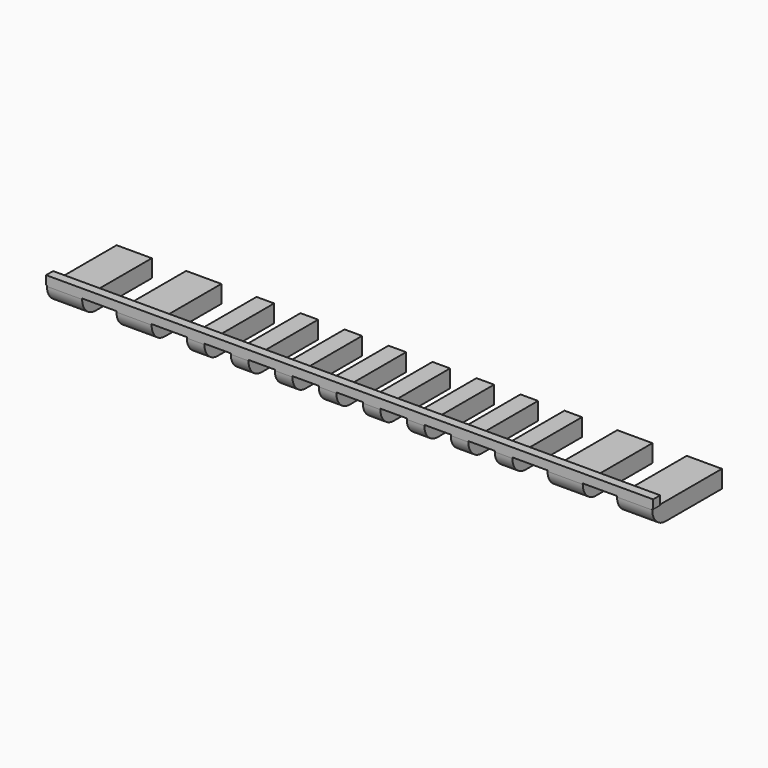
from build123d import *

# Parameters (mm, degrees)
SKETCH015_W  = 6.9
SKETCH015_H  = 0.1
PAD008_DEPTH = 0.1
SKETCH017_W  = 0.2
SKETCH017_H  = 0.99
PAD009_DEPTH = 0.2
SKETCH018_W  = 0.2
SKETCH018_H  = 0.99
PAD010_DEPTH = 0.2
FILLET003_R  = 0.19


with BuildPart() as part:
    # Sketch015 → Pad008 (new body)
    with BuildSketch(Plane.XY.offset(0.15)):
        with Locations((4.47, 6.96)):
            Rectangle(SKETCH015_W, SKETCH015_H)
    extrude(amount=PAD008_DEPTH)

    # Sketch017 → Pad009 (join)
    with BuildSketch(Plane.XY.offset(-0.05)):
        with Locations((1.33, 7.405)):
            Rectangle(SKETCH017_W, SKETCH017_H)
        with Locations((2.12, 7.405)):
            Rectangle(SKETCH017_W, SKETCH017_H)
        with Locations((2.72, 7.405)):
            Rectangle(SKETCH017_W, SKETCH017_H)
        with Locations((3.22, 7.405)):
            Rectangle(SKETCH017_W, SKETCH017_H)
        with Locations((3.72, 7.405)):
            Rectangle(SKETCH017_W, SKETCH017_H)
        with Locations((4.22, 7.405)):
            Rectangle(SKETCH017_W, SKETCH017_H)
        with Locations((4.72, 7.405)):
            Rectangle(SKETCH017_W, SKETCH017_H)
        with Locations((5.22, 7.405)):
            Rectangle(SKETCH017_W, SKETCH017_H)
        with Locations((5.72, 7.405)):
            Rectangle(SKETCH017_W, SKETCH017_H)
        with Locations((6.22, 7.405)):
            Rectangle(SKETCH017_W, SKETCH017_H)
        with Locations((6.82, 7.405)):
            Rectangle(SKETCH017_W, SKETCH017_H)
        with Locations((7.61, 7.405)):
            Rectangle(SKETCH017_W, SKETCH017_H)
    extrude(amount=PAD009_DEPTH)

    # Sketch018 → Pad010 (join)
    with BuildSketch(Plane.XY.offset(-0.05)):
        with Locations((1.13, 7.405)):
            Rectangle(SKETCH018_W, SKETCH018_H)
        with Locations((1.92, 7.405)):
            Rectangle(SKETCH018_W, SKETCH018_H)
        with Locations((7.02, 7.405)):
            Rectangle(SKETCH018_W, SKETCH018_H)
        with Locations((7.81, 7.405)):
            Rectangle(SKETCH018_W, SKETCH018_H)
    extrude(amount=PAD010_DEPTH)

    # Fillet003
    fillet003_edges = [part.edges().sort_by_distance(p)[0] for p in [
        (7.81, 6.91, -0.05),
        (7.61, 6.91, -0.05),
        (7.02, 6.91, -0.05),
        (6.82, 6.91, -0.05),
        (6.22, 6.91, -0.05),
        (5.72, 6.91, -0.05),
        (5.22, 6.91, -0.05),
        (4.72, 6.91, -0.05),
        (4.22, 6.91, -0.05),
        (3.72, 6.91, -0.05),
        (3.22, 6.91, -0.05),
        (2.72, 6.91, -0.05),
        (2.12, 6.91, -0.05),
        (1.92, 6.91, -0.05),
        (1.33, 6.91, -0.05),
        (1.13, 6.91, -0.05),
    ]]
    fillet(fillet003_edges, radius=FILLET003_R)


solid = part.part
